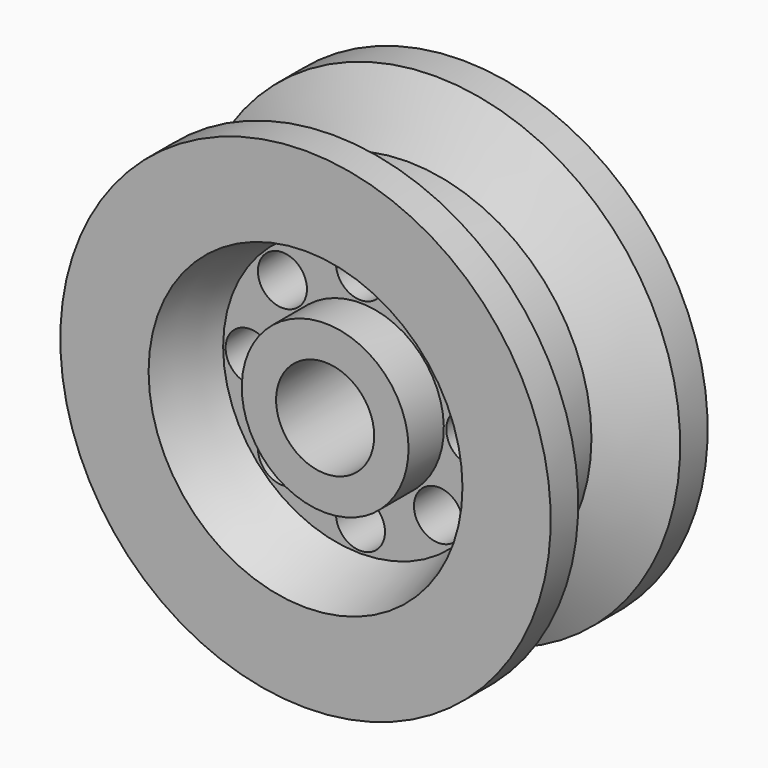
from build123d import *

# Parameters (mm, degrees)
F2_R     = 10
F3_DEPTH = 40
F6_R     = 5
F7_DEPTH = 25


with BuildPart() as f1:
    # F0 (on Right) → F1 (revolve)
    with BuildSketch(Plane.YZ):
        Polygon((-20, 50), (-20, 0), (20, 0), (20, 50), (13, 50), (6, 37.5), (0, 37.5), (-6, 37.5), (-13, 50), align=None)
    revolve(axis=Axis((0, 0, 0), (0, 1, 0)))

    # F2 (on face) → F3 (cut)
    with BuildSketch(Plane.XZ.offset(20)):
        Circle(F2_R)
    extrude(amount=-F3_DEPTH, mode=Mode.SUBTRACT)

    # F4 (on Right) → F5 (revolve, cut)
    with BuildSketch(Plane.YZ):
        Polygon((-15, -10), (-20, -10), (-20, -32), (-6, -28), (-6, -17), (-15, -17), align=None)
        Polygon((15, -17), (6, -17), (6, -28), (20, -32), (20, -10), (15, -10), align=None)
    revolve(axis=Axis((0, -10, 0), (0, -1, 0)), mode=Mode.SUBTRACT)

    # F6 (on face) → F7 (cut)
    with BuildSketch(Plane.XZ.offset(6)):
        with Locations((-15.909903, 15.909903)):
            Circle(F6_R)
        with Locations((0, 22.5)):
            Circle(F6_R)
        with Locations((15.909903, 15.909903)):
            Circle(F6_R)
        with Locations((-22.5, 0)):
            Circle(F6_R)
        with Locations((-15.909903, -15.909903)):
            Circle(F6_R)
        with Locations((0, -22.5)):
            Circle(F6_R)
        with Locations((15.909903, -15.909903)):
            Circle(F6_R)
        with Locations((22.5, 0)):
            Circle(F6_R)
    extrude(amount=-F7_DEPTH, mode=Mode.SUBTRACT)


solid = f1.part
